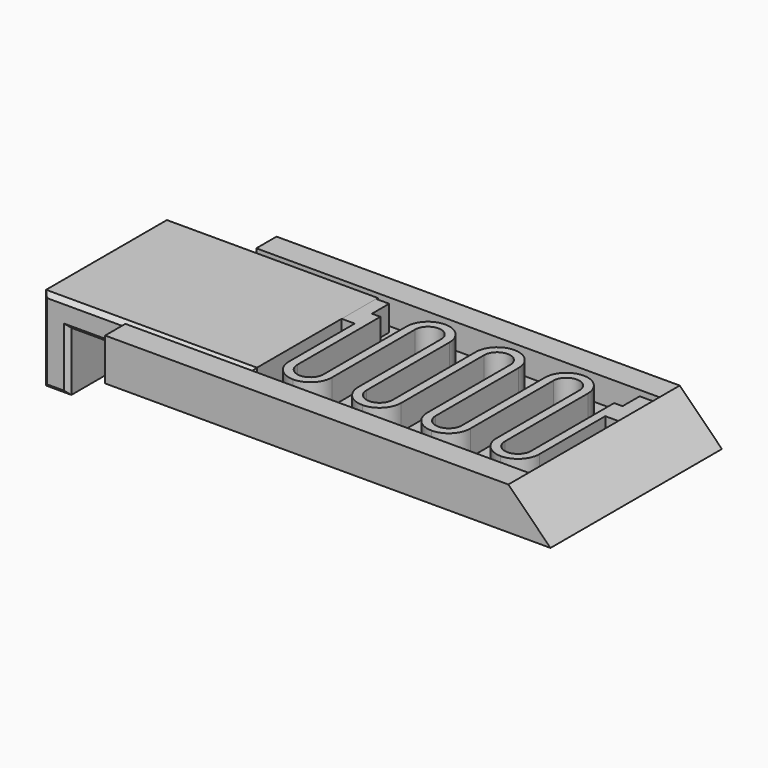
from build123d import *

# Parameters (mm, degrees)
F0_W      = 50.8
F0_H      = 25.4
F1_DEPTH  = 2
F2_W      = 50.8
F2_H      = 3
F3_DEPTH  = 3
F5_DEPTH  = 25.4
F6_DEPTH  = 3
F7_W      = 19.4
F7_H      = 2
F8_DEPTH  = 3
F9_W      = 13
F9_H      = 18.9
F9_W_2    = 12
F10_DEPTH = 3
F11_W     = 3
F11_H     = 18.9
F12_DEPTH = 7
F14_DEPTH = 3
F15_SIZE  = 0.5


with BuildPart() as f1:
    # F0 (on Top) → F1 (new body)
    with BuildSketch(Plane.XY):
        Rectangle(F0_W, F0_H)
    extrude(amount=F1_DEPTH)

    # F2 (on face) → F3 (join)
    with BuildSketch(Plane.XY.offset(2)):
        with Locations((0, 11.2)):
            Rectangle(F2_W, F2_H)
        with Locations((0, -11.2)):
            Rectangle(F2_W, F2_H)
    extrude(amount=F3_DEPTH)

    # F4 (on face) → F5 (join)
    with BuildSketch(Plane.XZ.offset(12.7)):
        Polygon((30.4, 0), (25.4, 5), (25.4, 0), align=None)
    extrude(amount=-F5_DEPTH)

    # F6 (cut): a face of the model
    f6_faces = [f1.faces().sort_by_distance(p)[0] for p in [
        (-25.4, 0, 1.6540697674),
    ]]
    extrude(f6_faces, amount=-F6_DEPTH, mode=Mode.SUBTRACT)

    # F7 (on face) → F8 (cut)
    with BuildSketch(Plane(origin=(-22.4, 0, 0), x_dir=(0, -1, 0), z_dir=(-1, 0, 0))):
        with Locations((0, 1)):
            Rectangle(F7_W, F7_H)
    extrude(amount=-F8_DEPTH, mode=Mode.SUBTRACT)


with BuildPart() as f10:
    # F9 (on face) → F10 (new body)
    with BuildSketch(Plane.XY.offset(2)):
        with Locations((-25.9, 0)):
            Rectangle(F9_W, F9_H)
        with Locations((-13.4, 0)):
            Rectangle(F9_W_2, F9_H)
    extrude(amount=F10_DEPTH)

    # F11 (on face) → F12 (join)
    with BuildSketch(Plane(origin=(0, 0, 2), x_dir=(1, 0, 0), z_dir=(0, 0, -1))):
        with Locations((-30.9, 0)):
            Rectangle(F11_W, F11_H)
    extrude(amount=F12_DEPTH)

    # F15
    f15_edges = [f10.edges().sort_by_distance(p)[0] for p in [
        (-7.4, 9.45, 3.5),
        (-19.9, 9.45, 5),
        (-32.4, 9.45, 0),
        (-30.9, 9.45, -5),
        (-29.4, 9.45, -1.5),
        (-18.4, 9.45, 2),
        (-19.9, -9.45, 5),
        (-7.4, -9.45, 3.5),
        (-18.4, -9.45, 2),
        (-29.4, -9.45, -1.5),
        (-30.9, -9.45, -5),
        (-32.4, -9.45, 0),
    ]]
    chamfer(f15_edges, length=F15_SIZE)


with BuildPart() as f14:
    # F13 (on face) → F14 (new body)
    with BuildSketch(Plane.XY.offset(2)):
        Polygon((-7.4, 8.7), (-7.4, 3.6), (-5.85, 3.6), (-5.85, 6.15), (-5.85, 8.7), align=None)
        with BuildLine():
            Line((-5.85, 3.6), (-5.85, -6.15))
            ThreePointArc((-5.85, -6.15), (-5.586372673, -5.0208410209), (-4.85, -4.1251543269))
            Line((-4.85, -4.1251543269), (-4.85, 6.15))
            Line((-4.85, 6.15), (-5.85, 6.15))
            Line((-5.85, 6.15), (-5.85, 3.6))
        make_face()
        with BuildLine():
            ThreePointArc((-1.75, -4.1251543269), (-1.013627327, -5.0208410209), (-0.75, -6.15))
            Line((-0.75, -6.15), (-0.75, 4.1251543269))
            ThreePointArc((-0.75, 4.1251543269), (-1.486372673, 5.0208410209), (-1.75, 6.15))
            Line((-1.75, 6.15), (-1.75, -4.1251543269))
        make_face()
        with BuildLine():
            ThreePointArc((-4.85, -4.1251543269), (-5.586372673, -5.0208410209), (-5.85, -6.15))
            Line((-5.85, -6.15), (-4.85, -6.15))
            Line((-4.85, -6.15), (-4.85, -4.1251543269))
        make_face()
        with BuildLine():
            Line((-1.75, -6.15), (-0.75, -6.15))
            ThreePointArc((-0.75, -6.15), (-1.013627327, -5.0208410209), (-1.75, -4.1251543269))
            Line((-1.75, -4.1251543269), (-1.75, -6.15))
        make_face()
        with BuildLine():
            ThreePointArc((-5.85, -6.15), (-5.103122288, -7.9531222961), (-3.2999999885, -8.7))
            ThreePointArc((-3.2999999885, -8.7), (-1.4968777039, -7.953122288), (-0.75, -6.15))
            Line((-0.75, -6.15), (-1.75, -6.15))
            ThreePointArc((-1.75, -6.15), (-3.3, -7.7), (-4.85, -6.15))
            Line((-4.85, -6.15), (-5.85, -6.15))
        make_face()
        with BuildLine():
            Line((2.35, 6.15), (3.35, 6.15))
            ThreePointArc((3.35, 6.15), (2.603122292, 7.953122292), (0.8, 8.7))
            ThreePointArc((0.8, 8.7), (-1.003122292, 7.953122292), (-1.75, 6.15))
            Line((-1.75, 6.15), (-0.75, 6.15))
            ThreePointArc((-0.75, 6.15), (0.8, 7.7), (2.35, 6.15))
        make_face()
        with BuildLine():
            ThreePointArc((-1.75, 6.15), (-1.486372673, 5.0208410209), (-0.75, 4.1251543269))
            Line((-0.75, 4.1251543269), (-0.75, 6.15))
            Line((-0.75, 6.15), (-1.75, 6.15))
        make_face()
        with BuildLine():
            Line((2.35, 6.15), (2.35, 4.1251543269))
            ThreePointArc((2.35, 4.1251543269), (3.086372673, 5.0208410209), (3.35, 6.15))
            Line((3.35, 6.15), (2.35, 6.15))
        make_face()
        with BuildLine():
            Line((2.35, 4.1251543269), (2.35, -6.15))
            ThreePointArc((2.35, -6.15), (2.613627327, -5.0208410209), (3.35, -4.1251543269))
            Line((3.35, -4.1251543269), (3.35, 6.15))
            ThreePointArc((3.35, 6.15), (3.086372673, 5.0208410209), (2.35, 4.1251543269))
        make_face()
        with BuildLine():
            ThreePointArc((2.35, -6.15), (3.096877708, -7.953122292), (4.9, -8.7))
            ThreePointArc((4.9, -8.7), (6.703122292, -7.953122292), (7.45, -6.15))
            Line((7.45, -6.15), (6.45, -6.15))
            ThreePointArc((6.45, -6.15), (4.9, -7.7), (3.35, -6.15))
            Line((3.35, -6.15), (2.35, -6.15))
        make_face()
        with BuildLine():
            ThreePointArc((6.45, -4.1251543269), (7.186372673, -5.0208410209), (7.45, -6.15))
            Line((7.45, -6.15), (7.45, 4.1251543269))
            ThreePointArc((7.45, 4.1251543269), (6.713627327, 5.0208410209), (6.45, 6.15))
            Line((6.45, 6.15), (6.45, -4.1251543269))
        make_face()
        with BuildLine():
            Line((10.55, 6.15), (11.55, 6.15))
            ThreePointArc((11.55, 6.15), (10.803122292, 7.953122292), (9, 8.7))
            ThreePointArc((9, 8.7), (7.196877708, 7.953122292), (6.45, 6.15))
            Line((6.45, 6.15), (7.45, 6.15))
            ThreePointArc((7.45, 6.15), (9, 7.7), (10.55, 6.15))
        make_face()
        with BuildLine():
            ThreePointArc((6.45, 6.15), (6.713627327, 5.0208410209), (7.45, 4.1251543269))
            Line((7.45, 4.1251543269), (7.45, 6.15))
            Line((7.45, 6.15), (6.45, 6.15))
        make_face()
        with BuildLine():
            ThreePointArc((3.35, -4.1251543269), (2.613627327, -5.0208410209), (2.35, -6.15))
            Line((2.35, -6.15), (3.35, -6.15))
            Line((3.35, -6.15), (3.35, -4.1251543269))
        make_face()
        with BuildLine():
            Line((6.45, -6.15), (7.45, -6.15))
            ThreePointArc((7.45, -6.15), (7.186372673, -5.0208410209), (6.45, -4.1251543269))
            Line((6.45, -4.1251543269), (6.45, -6.15))
        make_face()
        with BuildLine():
            Line((10.55, 6.15), (10.55, 4.1251543269))
            ThreePointArc((10.55, 4.1251543269), (11.286372673, 5.0208410209), (11.55, 6.15))
            Line((11.55, 6.15), (10.55, 6.15))
        make_face()
        with BuildLine():
            Line((10.55, 4.1251543269), (10.55, -6.15))
            ThreePointArc((10.55, -6.15), (10.813627327, -5.0208410209), (11.55, -4.1251543269))
            Line((11.55, -4.1251543269), (11.55, 6.15))
            ThreePointArc((11.55, 6.15), (11.286372673, 5.0208410209), (10.55, 4.1251543269))
        make_face()
        with BuildLine():
            ThreePointArc((10.55, -6.15), (11.296877708, -7.953122292), (13.1, -8.7))
            ThreePointArc((13.1, -8.7), (14.903122292, -7.953122292), (15.65, -6.15))
            Line((15.65, -6.15), (14.65, -6.15))
            ThreePointArc((14.65, -6.15), (13.1, -7.7), (11.55, -6.15))
            Line((11.55, -6.15), (10.55, -6.15))
        make_face()
        with BuildLine():
            ThreePointArc((11.55, -4.1251543269), (10.813627327, -5.0208410209), (10.55, -6.15))
            Line((10.55, -6.15), (11.55, -6.15))
            Line((11.55, -6.15), (11.55, -4.1251543269))
        make_face()
        with BuildLine():
            Line((14.65, -6.15), (15.65, -6.15))
            ThreePointArc((15.65, -6.15), (15.386372673, -5.0208410209), (14.65, -4.1251543269))
            Line((14.65, -4.1251543269), (14.65, -6.15))
        make_face()
        with BuildLine():
            ThreePointArc((14.65, -4.1251543269), (15.386372673, -5.0208410209), (15.65, -6.15))
            Line((15.65, -6.15), (15.65, 4.1251543269))
            ThreePointArc((15.65, 4.1251543269), (14.913627327, 5.0208410209), (14.65, 6.15))
            Line((14.65, 6.15), (14.65, -4.1251543269))
        make_face()
        with BuildLine():
            ThreePointArc((14.65, 6.15), (14.913627327, 5.0208410209), (15.65, 4.1251543269))
            Line((15.65, 4.1251543269), (15.65, 6.15))
            Line((15.65, 6.15), (14.65, 6.15))
        make_face()
        with BuildLine():
            Line((18.75, 6.15), (18.75, 4.1251543269))
            ThreePointArc((18.75, 4.1251543269), (19.486372673, 5.0208410209), (19.75, 6.15))
            Line((19.75, 6.15), (18.75, 6.15))
        make_face()
        with BuildLine():
            Line((18.75, 6.15), (19.75, 6.15))
            ThreePointArc((19.75, 6.15), (19.003122292, 7.953122292), (17.2, 8.7))
            ThreePointArc((17.2, 8.7), (15.396877708, 7.953122292), (14.65, 6.15))
            Line((14.65, 6.15), (15.65, 6.15))
            ThreePointArc((15.65, 6.15), (17.2, 7.7), (18.75, 6.15))
        make_face()
        Polygon((23.85, 3.6), (25.4, 3.6), (25.4, 8.7), (23.85, 8.7), (23.85, 6.160621997), align=None)
        with BuildLine():
            Line((18.75, 4.1251543269), (18.75, -6.15))
            ThreePointArc((18.75, -6.15), (19.013627327, -5.0208410209), (19.75, -4.1251543269))
            Line((19.75, -4.1251543269), (19.75, 6.15))
            ThreePointArc((19.75, 6.15), (19.486372673, 5.0208410209), (18.75, 4.1251543269))
        make_face()
        with BuildLine():
            ThreePointArc((19.75, -4.1251543269), (19.013627327, -5.0208410209), (18.75, -6.15))
            Line((18.75, -6.15), (19.75, -6.15))
            Line((19.75, -6.15), (19.75, -4.1251543269))
        make_face()
        with BuildLine():
            Line((22.85, -6.15), (23.85, -6.15))
            ThreePointArc((23.85, -6.15), (23.586372673, -5.0208410209), (22.85, -4.1251543269))
            Line((22.85, -4.1251543269), (22.85, -6.15))
        make_face()
        with BuildLine():
            ThreePointArc((18.75, -6.15), (19.496877708, -7.953122292), (21.3, -8.7))
            ThreePointArc((21.3, -8.7), (23.103122292, -7.953122292), (23.85, -6.15))
            Line((23.85, -6.15), (22.85, -6.15))
            ThreePointArc((22.85, -6.15), (21.3, -7.7), (19.75, -6.15))
            Line((19.75, -6.15), (18.75, -6.15))
        make_face()
        with BuildLine():
            ThreePointArc((22.85, -4.1251543269), (23.586372673, -5.0208410209), (23.85, -6.15))
            Line((23.85, -6.15), (23.85, 3.6))
            Line((23.85, 3.6), (23.85, 6.160621997))
            Line((23.85, 6.160621997), (22.85, 6.160621997))
            Line((22.85, 6.160621997), (22.85, -4.1251543269))
        make_face()
    extrude(amount=F14_DEPTH)


solid = Compound([f1.part, f10.part, f14.part])
